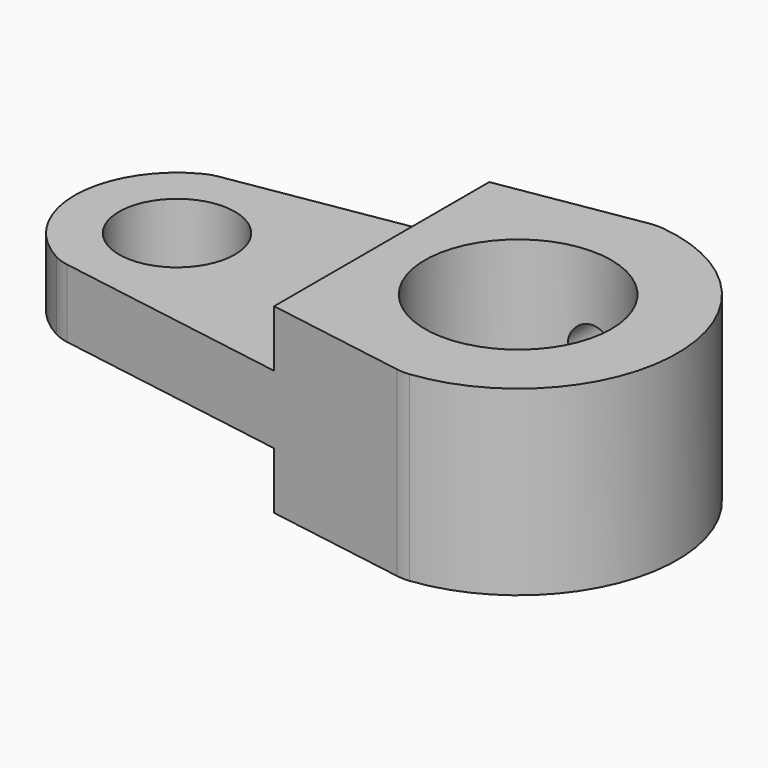
from build123d import *

# Parameters (mm, degrees)
SKETCH_R        = 4.1
SKETCH_R_2      = 2.55
PAD_DEPTH       = 8
SKETCH001_W     = 15
SKETCH001_H     = 15
POCKET_DEPTH    = 2.5
SKETCH002_W     = 15
SKETCH002_H     = 15
POCKET001_DEPTH = 2.5
SKETCH003_R     = 1
POCKET002_DEPTH = 7
FILLET_R        = 2


with BuildPart() as part:
    # Sketch → Pad (new body)
    with BuildSketch(Plane.XY):
        with BuildLine():
            ThreePointArc((7.986353, -6.983084), (14.5, 0), (7.986353, 6.983084))
            Line((-9.28, 4.132989), (7.986353, 6.983084))
            ThreePointArc((-9.28, 4.132989), (-12, 0), (-9.28, -4.132989))
            Line((-9.28, -4.132989), (7.986353, -6.983084))
        make_face()
        with Locations((7.5, 0)):
            Circle(SKETCH_R, mode=Mode.SUBTRACT)
        with Locations((-7.5, 0)):
            Circle(SKETCH_R_2, mode=Mode.SUBTRACT)
    extrude(amount=PAD_DEPTH)

    # Sketch001 (on Face8 of Pad) → Pocket (cut)
    with BuildSketch(Plane.XY.offset(8)):
        with Locations((-6, 0)):
            Rectangle(SKETCH001_W, SKETCH001_H)
    extrude(amount=-POCKET_DEPTH, mode=Mode.SUBTRACT)

    # Sketch002 (on Face4 of Pocket) → Pocket001 (cut)
    with BuildSketch(Plane(origin=(0, 0, 0), x_dir=(1, 0, 0), z_dir=(0, 0, -1))):
        with Locations((-6, 0)):
            Rectangle(SKETCH002_W, SKETCH002_H)
    extrude(amount=-POCKET001_DEPTH, mode=Mode.SUBTRACT)

    # Sketch003 → Pocket002 (cut)
    with BuildSketch(Plane.XZ):
        with Locations((7.5, 4.15)):
            Circle(SKETCH003_R)
    extrude(amount=-POCKET002_DEPTH, mode=Mode.SUBTRACT)

    # Fillet
    fillet_edges = [part.edges().sort_by_distance(p)[0] for p in [
        (-9.28, 4.132989, 4),
        (7.986353, 6.983084, 6.511881),
        (7.986353, 6.983084, 1.638119),
        (7.986353, -6.983084, 4),
        (-9.28, -4.132989, 4),
    ]]
    fillet(fillet_edges, radius=FILLET_R)


solid = part.part
